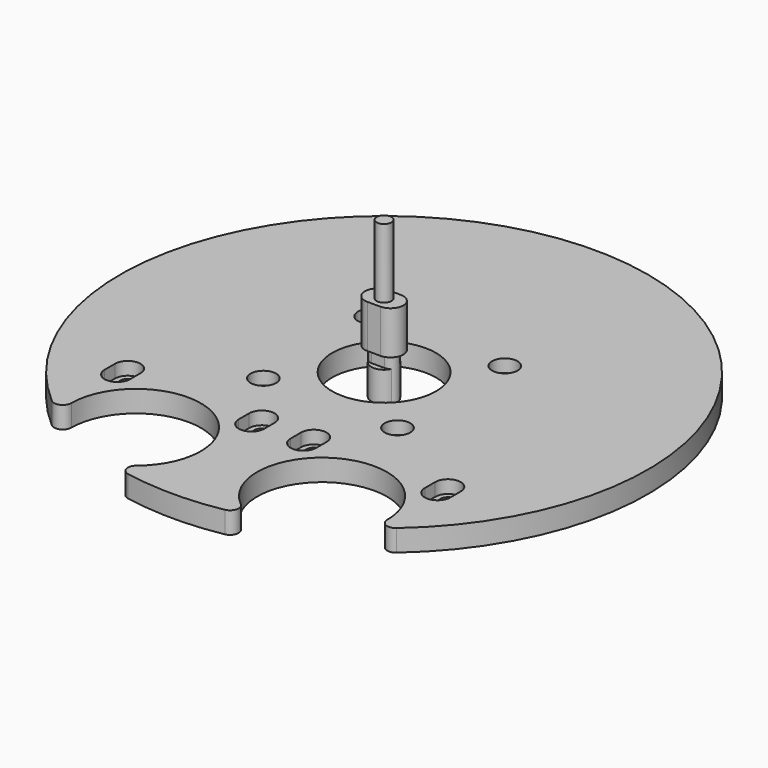
from build123d import *

# Parameters (mm, degrees)
CYLINDER_R               = 2.95
CYLINDER_DEPTH           = 7
CYLINDER001_R            = 1.7
CYLINDER001_DEPTH        = 30
PAD006_DEPTH             = 10
PAD007_DEPTH             = 10
CLONE085_PLACEMENT_ANGLE = 90
CLONE084_PLACEMENT_ANGLE = 90
CLONE081_PLACEMENT_ANGLE = 90
CLONE080_PLACEMENT_ANGLE = 90
CLONE444_PLACEMENT_ANGLE = 180
ARRAY_COUNT              = 4
SKETCH019_R              = 12
PAD012_DEPTH             = 5


with BuildPart() as m3bolthead:
    # Cylinder → Cylinder (new body)
    with BuildSketch(Plane.XY):
        Circle(CYLINDER_R)
    extrude(amount=CYLINDER_DEPTH)


with BuildPart() as m3bolt:
    # Cylinder001 → Cylinder001 (new body)
    with BuildSketch(Plane.XY.offset(6)):
        Circle(CYLINDER001_R)
    extrude(amount=CYLINDER001_DEPTH)

    # Fusion: union M3BoltHead
    add(m3bolthead.part)


with BuildPart() as m3boltslider:
    # Sketch009 → Pad006 (new body)
    with BuildSketch(Plane.XY):
        with BuildLine():
            ThreePointArc((-1.5, 1.7), (-3.2, 0), (-1.5, -1.7))
            Line((-1.5, -1.7), (1.5, -1.7))
            ThreePointArc((1.5, -1.7), (3.2, 0), (1.5, 1.7))
            Line((-1.5, 1.7), (1.5, 1.7))
        make_face()
    extrude(amount=PAD006_DEPTH)


with BuildPart() as clone_of_m3boltslider003:
    # Clone040 base: copy of M3BoltSlider
    add(m3boltslider.part)


with BuildPart() as obj1:
    # Sketch010 → Pad007 (new body)
    with BuildSketch(Plane.XY.offset(10)):
        with BuildLine():
            ThreePointArc((-1.5, 2.95), (-4.45, 0), (-1.5, -2.95))
            Line((-1.5, -2.95), (1.5, -2.95))
            ThreePointArc((1.5, -2.95), (4.45, 0), (1.5, 2.95))
            Line((-1.5, 2.95), (1.5, 2.95))
        make_face()
    extrude(amount=PAD007_DEPTH)

    # Fusion015: union Clone of M3BoltSlider003
    add(clone_of_m3boltslider003.part)


with BuildPart() as obj2:
    # Clone085 base: copy of obj1
    add(obj1.part)


with BuildPart() as obj2_1:
    # Clone085 placement: moved
    add(obj2.part.moved(Location((-37, -29.3, -8))).rotate(Axis((-37, -29.3, -8), (0, 0, 1)), CLONE085_PLACEMENT_ANGLE))


with BuildPart() as obj3:
    # Clone084 base: copy of obj1
    add(obj1.part)


with BuildPart() as obj3_1:
    # Clone084 placement: moved
    add(obj3.part.moved(Location((6, -29.3, -8))).rotate(Axis((6, -29.3, -8), (0, 0, 1)), CLONE084_PLACEMENT_ANGLE))


with BuildPart() as obj4:
    # Clone081 base: copy of obj1
    add(obj1.part)


with BuildPart() as obj4_1:
    # Clone081 placement: moved
    add(obj4.part.moved(Location((-6, -29.3, -8))).rotate(Axis((-6, -29.3, -8), (0, 0, 1)), CLONE081_PLACEMENT_ANGLE))


with BuildPart() as obj5:
    # Clone080 base: copy of obj1
    add(obj1.part)


with BuildPart() as obj5_1:
    # Clone080 placement: moved
    add(obj5.part.moved(Location((37, -29.3, -8))).rotate(Axis((37, -29.3, -8), (0, 0, 1)), CLONE080_PLACEMENT_ANGLE))


with BuildPart() as fusion169:
    # Clone444 base: copy of M3Bolt
    add(m3bolt.part)


with BuildPart() as fusion169_1:
    # Clone444 placement: moved
    add(fusion169.part.moved(Location((15.5, 15.5, 9))).rotate(Axis((15.5, 15.5, 9), (0, 1, 0)), CLONE444_PLACEMENT_ANGLE))

    # Array: Fusion169 ×4 about axis
    array_axis = Axis((0, 0, 0), (0, 0, 1))


with BuildPart() as fusion169_2:
    add(fusion169_1.part)
    for i in range(1, ARRAY_COUNT):
        add(fusion169_1.part.rotate(array_axis, i * 360 / ARRAY_COUNT))

    # Fusion169: union obj2, obj3, obj4, obj5
    add(obj2_1.part)
    add(obj3_1.part)
    add(obj4_1.part)
    add(obj5_1.part)


with BuildPart() as obj6:
    # Sketch019 → Pad012 (new body)
    with BuildSketch(Plane.XY):
        with BuildLine():
            ThreePointArc((-11.158714, -59.970685), (0, -61), (11.158714, -59.970685))
            ThreePointArc((11.158714, -59.970685), (12.731328, -58.496699), (12.052527, -56.450977))
            ThreePointArc((36.499778, -44.718481), (15.010016, -31.276683), (12.052527, -56.450977))
            ThreePointArc((36.499778, -44.718481), (37.671076, -46.527846), (39.804823, -46.223111))
            ThreePointArc((39.804823, -46.223111), (0, 61), (-39.804823, -46.223111))
            ThreePointArc((-39.804823, -46.223111), (-37.671076, -46.527846), (-36.499778, -44.718481))
            ThreePointArc((-12.052527, -56.450977), (-15.010016, -31.276683), (-36.499778, -44.718481))
            ThreePointArc((-12.052527, -56.450977), (-12.731328, -58.496699), (-11.158714, -59.970685))
        make_face()
        Circle(SKETCH019_R, mode=Mode.SUBTRACT)
    extrude(amount=PAD012_DEPTH)

    # Cut149: cut Fusion169
    add(fusion169_2.part, mode=Mode.SUBTRACT)


solid = Compound([m3bolt.part, m3boltslider.part, obj1.part, obj6.part])
